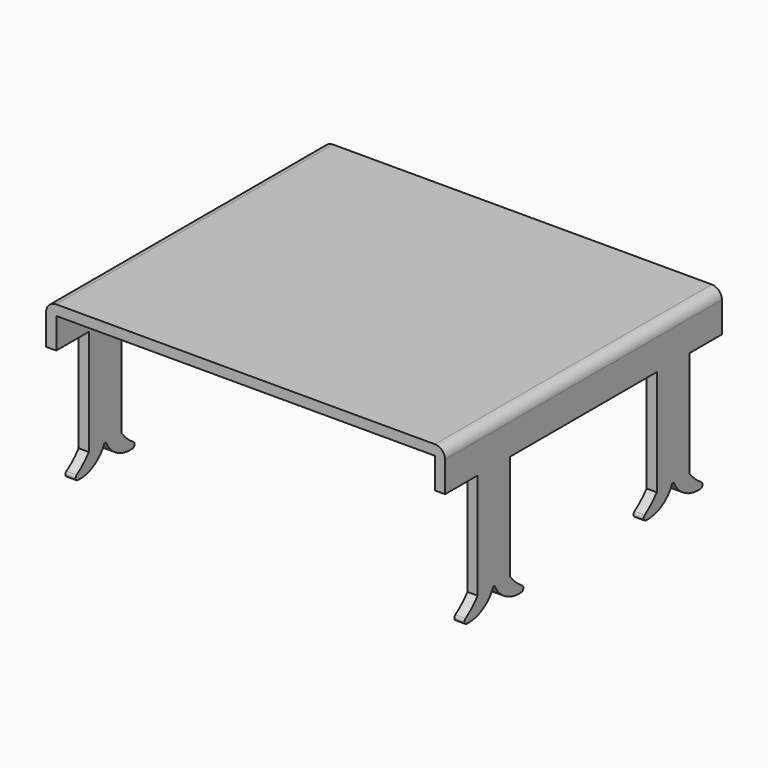
from build123d import *

# Parameters (mm, degrees)
SKETCH006_W                = 19.6
SKETCH006_H                = 17
PAD001_DEPTH               = 0.5
SKETCH011_W                = 0.5
SKETCH011_H                = 17
PAD002_DEPTH               = 1.5
SKETCH012_W                = 0.5
SKETCH012_H                = 2
PAD003_DEPTH               = 5.2
SKETCH012_MIRRORED008_2_W  = 0.5
SKETCH012_MIRRORED008_2_H  = 2
PAD003_MIRRORED008_2_DEPTH = 5.2
PAD004_DEPTH               = 0.5
PAD004_MIRRORED010_2_DEPTH = 0.5
FILLET_R                   = 0.5


with BuildPart() as part:
    # Sketch006 → Pad001 (new body)
    with BuildSketch(Plane.XY.offset(15.2)):
        Rectangle(SKETCH006_W, SKETCH006_H)
    extrude(amount=PAD001_DEPTH)

    # Sketch011 (on Face5 of Pad001) → Pad002 (join)
    with BuildSketch(Plane(origin=(0, 0, 15.2), x_dir=(1, 0, 0), z_dir=(0, 0, -1))):
        with Locations((-9.55, 0)):
            Rectangle(SKETCH011_W, SKETCH011_H)
    pad002 = extrude(amount=PAD002_DEPTH)

    # Mirrored007: Pad002 across YZ
    add(pad002.mirror(Plane.YZ))

    # Sketch012 (on Face5 of Mirrored007) → Pad003 (join)
    with BuildSketch(Plane(origin=(0, 0, 13.7), x_dir=(1, 0, 0), z_dir=(0, 0, -1))):
        with Locations((-9.55, 5.5)):
            Rectangle(SKETCH012_W, SKETCH012_H)
    pad003 = extrude(amount=PAD003_DEPTH)

    # Sketch012 Mirrored008 2 → Pad003 Mirrored008 2 (add)
    with BuildSketch(Plane(origin=(0, 0, 13.7), x_dir=(-1, 0, 0), z_dir=(0, 0, 1))):
        with Locations((-9.55, 5.5)):
            Rectangle(SKETCH012_MIRRORED008_2_W, SKETCH012_MIRRORED008_2_H)
    pad003_mirrored008_2 = extrude(amount=-PAD003_MIRRORED008_2_DEPTH)

    # Mirrored009: Pad003, Pad003 Mirrored008 2 across XZ
    add(pad003.mirror(Plane.XZ))
    add(pad003_mirrored008_2.mirror(Plane.XZ))

    # Sketch013 (on Face24 of MultiTransform001) → Pad004 (join)
    with BuildSketch(Plane(origin=(-9.8, 0, 0), x_dir=(0, -1, 0), z_dir=(-1, 0, 0))):
        with BuildLine():
            ThreePointArc((-7.247226, 7.814702), (-7.306335, 7.663488), (-7.182824, 7.558111))
            add(Edge.make_bspline(
                [(-7.182824, 7.558111), (-5.976509, 7.451929), (-5.547279, 8.5)],
                knots=[1.033239, 1.033239, 1.033239, 2.478771, 2.478771, 2.478771], degree=2, weights=[1, 0.749979, 1]))
            Line((-5.547279, 8.5), (-6.5, 8.5))
            add(Edge.make_bspline(
                [(-7.247226, 7.814702), (-6.810749, 8.100432), (-6.5, 8.5)],
                knots=[1.339981, 1.339981, 1.339981, 1.941601, 1.941601, 1.941601], degree=2, weights=[1, 0.955097, 1]))
        make_face()
        with BuildLine():
            add(Edge.make_bspline(
                [(-5.452721, 8.5), (-5.023491, 7.451929), (-3.817176, 7.558111)],
                knots=[3.804414, 3.804414, 3.804414, 5.249946, 5.249946, 5.249946], degree=2, weights=[1, 0.749979, 1]))
            ThreePointArc((-3.817176, 7.558111), (-3.693665, 7.663488), (-3.752774, 7.814702))
            add(Edge.make_bspline(
                [(-4.5, 8.5), (-4.189251, 8.100432), (-3.752774, 7.814702)],
                knots=[4.341585, 4.341585, 4.341585, 4.943204, 4.943204, 4.943204], degree=2, weights=[1, 0.955097, 1]))
            Line((-4.5, 8.5), (-5.452721, 8.5))
        make_face()
    pad004 = extrude(amount=-PAD004_DEPTH)

    # Sketch013 Mirrored010 2 → Pad004 Mirrored010 2 (add)
    with BuildSketch(Plane(origin=(9.8, 0, 0), x_dir=(0, -1, 0), z_dir=(-1, 0, 0))):
        with BuildLine():
            ThreePointArc((-7.247226, 7.814702), (-7.306335, 7.663488), (-7.182824, 7.558111))
            add(Edge.make_bspline(
                [(-7.182824, 7.558111), (-5.976509, 7.451929), (-5.547279, 8.5)],
                knots=[1.033239, 1.033239, 1.033239, 2.478771, 2.478771, 2.478771], degree=2, weights=[1, 0.749979, 1]))
            Line((-5.547279, 8.5), (-6.5, 8.5))
            add(Edge.make_bspline(
                [(-7.247226, 7.814702), (-6.810749, 8.100432), (-6.5, 8.5)],
                knots=[1.339981, 1.339981, 1.339981, 1.941601, 1.941601, 1.941601], degree=2, weights=[1, 0.955097, 1]))
        make_face()
        with BuildLine():
            add(Edge.make_bspline(
                [(-5.452721, 8.5), (-5.023491, 7.451929), (-3.817176, 7.558111)],
                knots=[3.804414, 3.804414, 3.804414, 5.249946, 5.249946, 5.249946], degree=2, weights=[1, 0.749979, 1]))
            ThreePointArc((-3.817176, 7.558111), (-3.693665, 7.663488), (-3.752774, 7.814702))
            add(Edge.make_bspline(
                [(-4.5, 8.5), (-4.189251, 8.100432), (-3.752774, 7.814702)],
                knots=[4.341585, 4.341585, 4.341585, 4.943204, 4.943204, 4.943204], degree=2, weights=[1, 0.955097, 1]))
            Line((-4.5, 8.5), (-5.452721, 8.5))
        make_face()
    pad004_mirrored010_2 = extrude(amount=PAD004_MIRRORED010_2_DEPTH)

    # Mirrored011: Pad004, Pad004 Mirrored010 2 across XZ
    add(pad004.mirror(Plane.XZ))
    add(pad004_mirrored010_2.mirror(Plane.XZ))

    # Fillet
    fillet_edges = [part.edges().sort_by_distance(p)[0] for p in [
        (-9.8, 0, 15.7),
        (9.8, 0, 15.7),
    ]]
    fillet(fillet_edges, radius=FILLET_R)


solid = part.part
